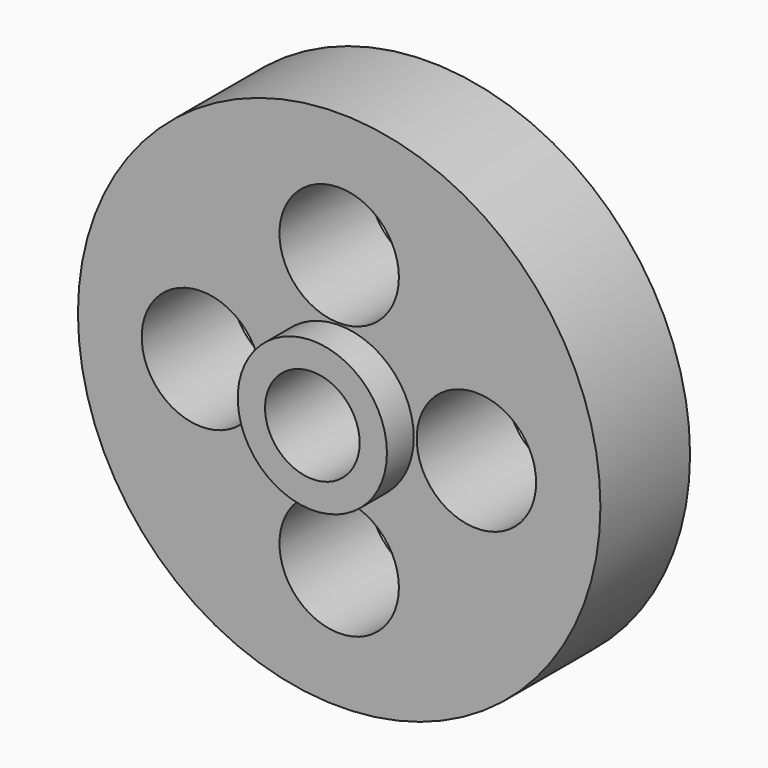
from build123d import *

# Parameters (mm, degrees)
F0_R     = 35.0012
F0_R_2   = 29.9974
F0_R_3   = 8.001
F0_R_4   = 9.9949
F1_DEPTH = 15.0114
F0_R_5   = 6.3373
F2_DEPTH = 19.5072


with BuildPart() as f1:
    # F0 (on Front) → F1 (new body)
    with BuildSketch(Plane.XZ):
        Circle(F0_R)
        Circle(F0_R_2, mode=Mode.SUBTRACT)
        Circle(F0_R_2)
        with Locations((0, -18.353684)):
            Circle(F0_R_3, mode=Mode.SUBTRACT)
        with Locations((-18.456556, 0)):
            Circle(F0_R_3, mode=Mode.SUBTRACT)
        Circle(F0_R_4, mode=Mode.SUBTRACT)
        with Locations((18.384509, 0)):
            Circle(F0_R_3, mode=Mode.SUBTRACT)
        with Locations((0, 18.231541)):
            Circle(F0_R_3, mode=Mode.SUBTRACT)
    extrude(amount=F1_DEPTH)

    # F0 (on Front) → F2 (join)
    with BuildSketch(Plane.XZ):
        Circle(F0_R_4)
        Circle(F0_R_5, mode=Mode.SUBTRACT)
    extrude(amount=F2_DEPTH)


solid = f1.part
